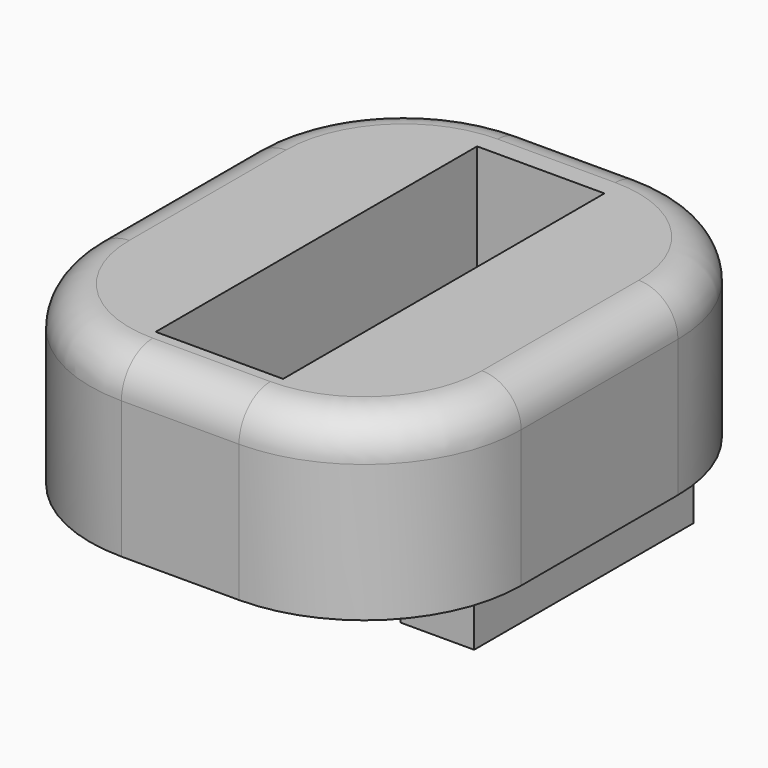
from build123d import *

# Parameters (mm, degrees)
F0_W     = 14
F0_H     = 14
F1_DEPTH = 5
F2_W     = 22
F2_H     = 26
F2_W_2   = 14
F2_H_2   = 14
F3_DEPTH = 9
F4_W     = 6.5
F4_H     = 20.5
F5_DEPTH = 9
F6_W     = 6.5
F6_H     = 13
F7_DEPTH = 5.001
F8_R     = 8
F9_R     = 2


with BuildPart() as f1:
    # F0 (on Top) → F1 (new body)
    with BuildSketch(Plane.XY):
        with Locations((-7, 7)):
            Rectangle(F0_W, F0_H)
        with Locations((-7, 7)):
            Rectangle(F0_W, F0_H)
    extrude(amount=F1_DEPTH)

    # F2 (on face) → F3 (join)
    with BuildSketch(Plane.XY.offset(5)):
        with Locations((-7, 3)):
            Rectangle(F2_W, F2_H)
        with Locations((-7, 7)):
            Rectangle(F2_W_2, F2_H_2, mode=Mode.SUBTRACT)
        with Locations((-7, 7)):
            Rectangle(F2_W_2, F2_H_2)
    extrude(amount=F3_DEPTH)

    # F4 (on face) → F5 (cut, through all)
    with BuildSketch(Plane.XY.offset(14)):
        with Locations((-7, 2.75)):
            Rectangle(F4_W, F4_H)
    extrude(amount=-F5_DEPTH, mode=Mode.SUBTRACT)

    # F6 (on face) → F7 (cut, through all)
    with BuildSketch(Plane.XY.offset(5)):
        with Locations((-7, 6.5)):
            Rectangle(F6_W, F6_H)
    extrude(amount=-F7_DEPTH, mode=Mode.SUBTRACT)

    # F8
    f8_edges = [f1.edges().sort_by_distance(p)[0] for p in [
        (4, -10, 9.5),
        (4, 16, 9.5),
        (-18, 16, 9.5),
        (-18, -10, 9.5),
    ]]
    fillet(f8_edges, radius=F8_R)

    # F9
    f9_edges = [f1.edges().sort_by_distance(p)[0] for p in [
        (4, 3, 14),
        (1.656854, 13.656854, 14),
    ]]
    fillet(f9_edges, radius=F9_R)


solid = f1.part
